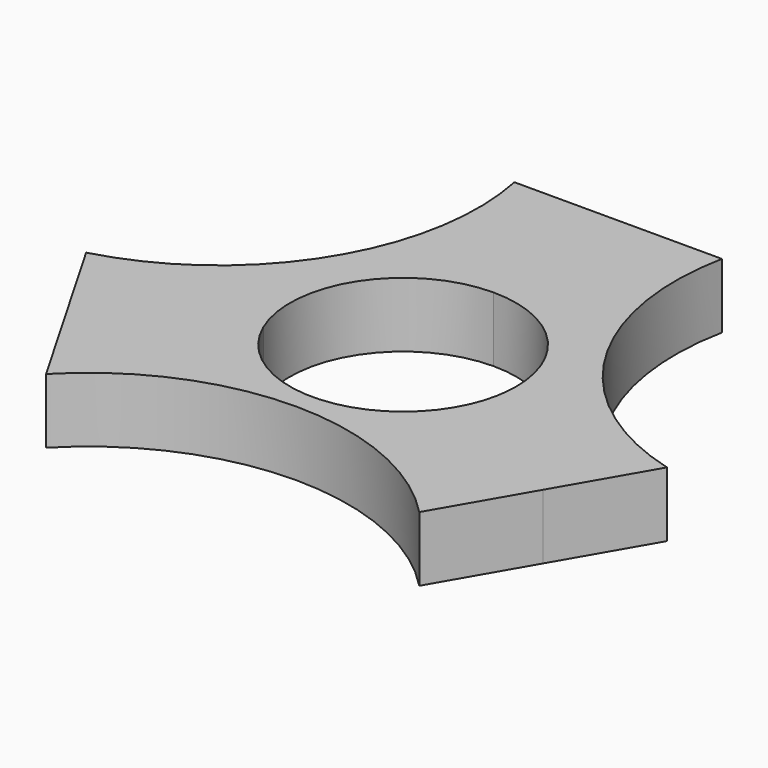
from build123d import *

# Parameters (mm, degrees)
F1_DEPTH = 6.35
F2_DEPTH = 914.4


with BuildPart() as f1:
    # F0 (on Top) → F1 (new body)
    with BuildSketch(Plane.XY):
        with BuildLine():
            ThreePointArc((-10.16, -4.4064424835), (-9.2585377355, 6.0763323116), (0, 11.0744))
            Line((0, 11.0744), (0, 26.3144))
            Line((0, 26.3144), (-10.16, 26.3144))
            ThreePointArc((-10.16, 26.3144), (-13.4590659426, 7.9300363387), (-28.4382271537, -3.227624381))
            Line((-28.4382271537, -3.227624381), (-23.3582271537, -12.0264424835))
            Line((-23.3582271537, -12.0264424835), (-10.16, -4.4064424835))
        make_face()
        with BuildLine():
            ThreePointArc((10.148152514, -4.4336594269), (10.8403652051, -2.2646892899), (11.0744, 0))
            ThreePointArc((11.0744, 0), (7.8307833376, 7.8307833376), (0, 11.0744))
            ThreePointArc((0, 11.0744), (-9.2585377355, 6.0763323116), (-10.16, -4.4064424835))
            ThreePointArc((-10.16, -4.4064424835), (-0.0148418743, -11.0743900545), (10.148152514, -4.4336594269))
        make_face()
        with BuildLine():
            ThreePointArc((0, 11.0744), (7.8307833376, 7.8307833376), (11.0744, 0))
            ThreePointArc((11.0744, 0), (10.8403652051, -2.2646892899), (10.148152514, -4.4336594269))
            Line((10.148152514, -4.4336594269), (23.3463796676, -12.0536594269))
            Line((23.3463796676, -12.0536594269), (28.4263796676, -3.2548413244))
            ThreePointArc((28.4263796676, -3.2548413244), (13.4364974773, 7.9131265949), (10.148152514, 26.3144))
            Line((10.148152514, 26.3144), (0, 26.3144))
            Line((0, 26.3144), (0, 11.0744))
        make_face()
        with BuildLine():
            Line((23.3463796676, -12.0536594269), (10.148152514, -4.4336594269))
            ThreePointArc((10.148152514, -4.4336594269), (-0.0148418743, -11.0743900545), (-10.16, -4.4064424835))
            Line((-10.16, -4.4064424835), (-23.3582271537, -12.0264424835))
            Line((-23.3582271537, -12.0264424835), (-18.2782271537, -20.8252605859))
            ThreePointArc((-18.2782271537, -20.8252605859), (-0.0001467991, -13.082077915), (18.2663796676, -20.8524775293))
            Line((18.2663796676, -20.8524775293), (23.3463796676, -12.0536594269))
        make_face()
    extrude(amount=F1_DEPTH)

    # F0 (on Top) → F2 (cut)
    with BuildSketch(Plane.XY):
        with BuildLine():
            ThreePointArc((10.148152514, -4.4336594269), (10.8403652051, -2.2646892899), (11.0744, 0))
            ThreePointArc((11.0744, 0), (7.8307833376, 7.8307833376), (0, 11.0744))
            ThreePointArc((0, 11.0744), (-9.2585377355, 6.0763323116), (-10.16, -4.4064424835))
            ThreePointArc((-10.16, -4.4064424835), (-0.0148418743, -11.0743900545), (10.148152514, -4.4336594269))
        make_face()
    extrude(amount=F2_DEPTH, mode=Mode.SUBTRACT)


solid = f1.part
